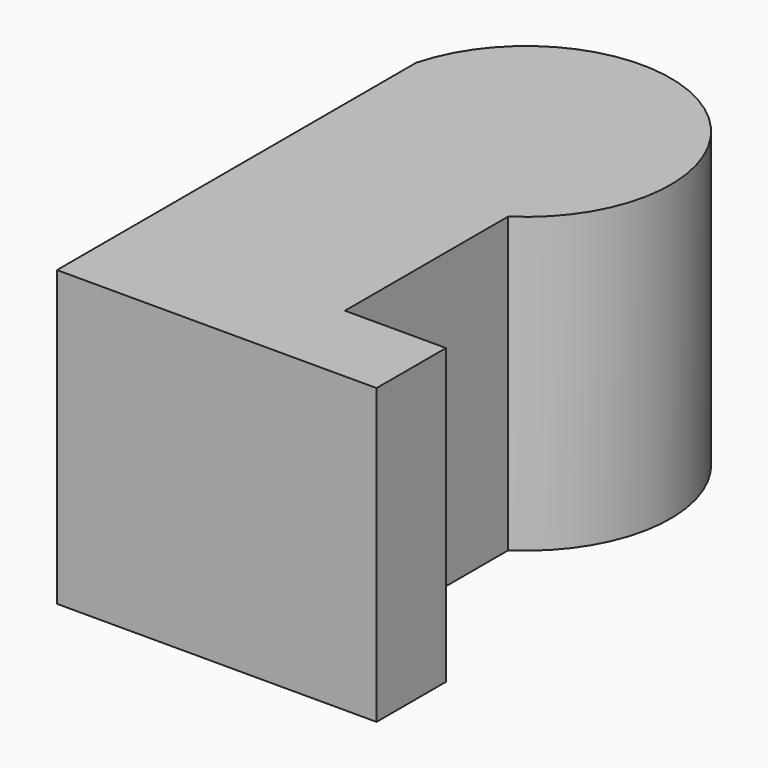
from build123d import *

# Parameters (mm, degrees)
F1_DEPTH      = 3.6
F1_DEPTH_BACK = 3.6
F2_R          = 1.5
F3_DEPTH      = 25


with BuildPart() as f1:
    # F0 (on Top) → F1 (new body, two sides)
    with BuildSketch(Plane.XY) as f1_sk:
        with BuildLine():
            Line((0, 11), (0, 0))
            Line((0, 0), (7.83, 0))
            Line((7.83, 0), (7.83, 2.125603))
            Line((7.83, 2.125603), (5.354925, 2.125603))
            Line((5.354925, 2.125603), (5.354925, 7.125603))
            ThreePointArc((5.354925, 7.125603), (5.496339, 12.958858), (0, 11))
        make_face()
    extrude(amount=F1_DEPTH)
    extrude(f1_sk.sketch, amount=-F1_DEPTH_BACK)

    # F2 (on Top) → F3 (cut)
    with BuildSketch(Plane.XY):
        with Locations((3.421256, 10.090822)):
            Circle(F2_R)
    extrude(amount=-F3_DEPTH, mode=Mode.SUBTRACT)


solid = f1.part
